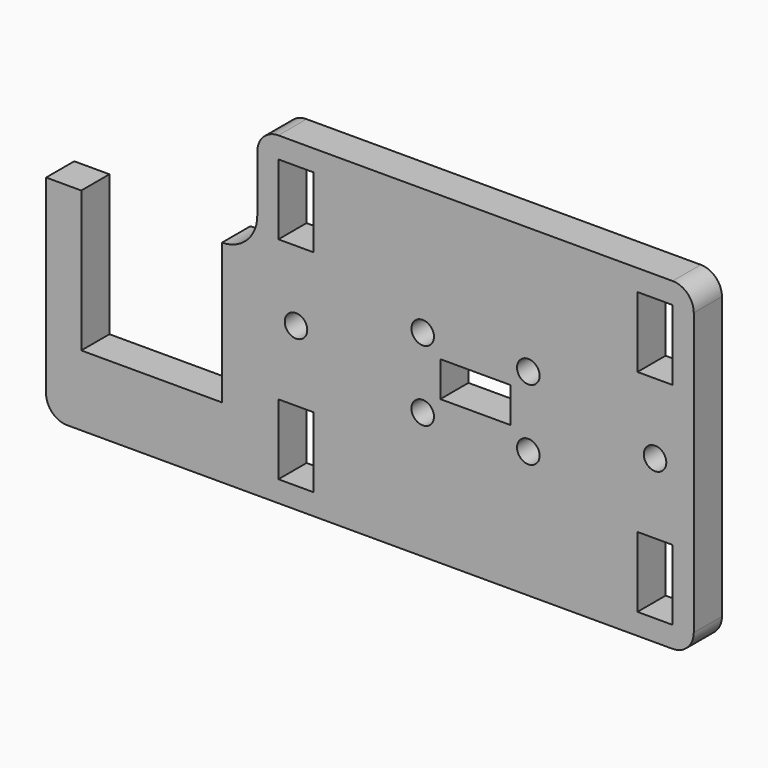
from build123d import *

# Parameters (mm, degrees)
F1_W     = 5
F1_H     = 10
F1_R     = 1.6
F1_W_2   = 10
F1_H_2   = 5
F2_DEPTH = 5


with BuildPart() as f2:
    # F1 (on Front) → F2 (new body)
    with BuildSketch(Plane.XZ):
        with BuildLine():
            Line((-21, 35), (-21, 27))
            ThreePointArc((-21, 27), (-22.4644660941, 23.4644660941), (-26, 22))
            Line((-26, 22), (-26, 2))
            Line((-26, 2), (-46, 2))
            Line((-46, 2), (-46, 22))
            Line((-46, 22), (-51, 22))
            Line((-51, 22), (-51, -5))
            ThreePointArc((-51, -5), (-50.1213203436, -7.1213203436), (-48, -8))
            Line((-48, -8), (38, -8))
            ThreePointArc((38, -8), (40.1213203436, -7.1213203436), (41, -5))
            Line((41, -5), (41, 35))
            ThreePointArc((41, 35), (40.1213203436, 37.1213203436), (38, 38))
            Line((38, 38), (-18, 38))
            ThreePointArc((-18, 38), (-20.1213203436, 37.1213203436), (-21, 35))
        make_face()
        with Locations((-15.5, 0)):
            Rectangle(F1_W, F1_H, mode=Mode.SUBTRACT)
        with Locations((35.5, 0)):
            Rectangle(F1_W, F1_H, mode=Mode.SUBTRACT)
        with Locations((2.5, 10)):
            Circle(F1_R, mode=Mode.SUBTRACT)
        with Locations((17.5, 10)):
            Circle(F1_R, mode=Mode.SUBTRACT)
        with Locations((-15.5, 15)):
            Circle(F1_R, mode=Mode.SUBTRACT)
        with Locations((-15.5, 30)):
            Rectangle(F1_W, F1_H, mode=Mode.SUBTRACT)
        with Locations((2.5, 20)):
            Circle(F1_R, mode=Mode.SUBTRACT)
        with Locations((10, 15)):
            Rectangle(F1_W_2, F1_H_2, mode=Mode.SUBTRACT)
        with Locations((17.5, 20)):
            Circle(F1_R, mode=Mode.SUBTRACT)
        with Locations((35.5, 15)):
            Circle(F1_R, mode=Mode.SUBTRACT)
        with Locations((35.5, 30)):
            Rectangle(F1_W, F1_H, mode=Mode.SUBTRACT)
    extrude(amount=F2_DEPTH)


solid = f2.part
